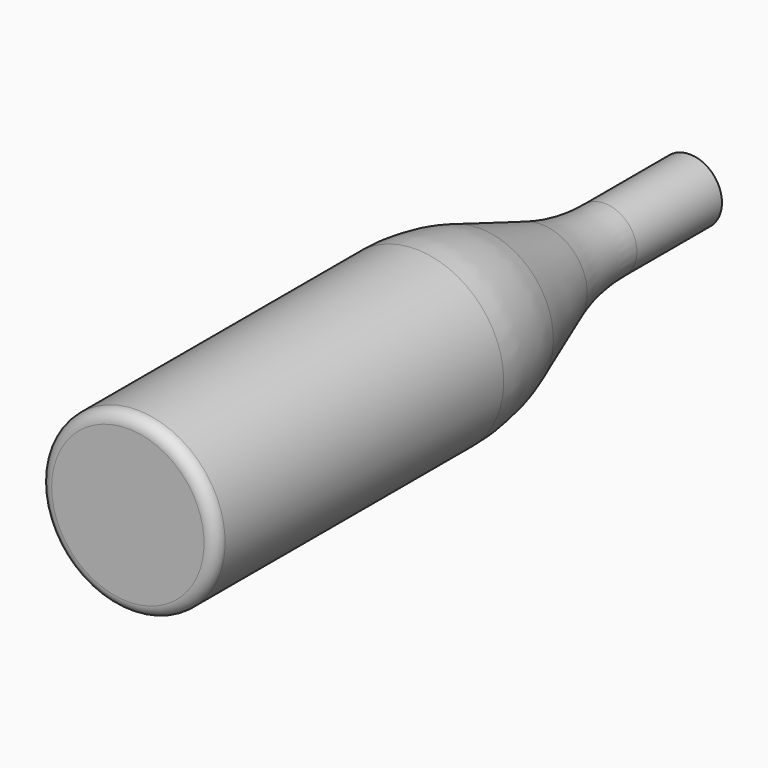
from build123d import *

# Parameters (mm, degrees)
F2_R = 100
F3_R = 5
F4_T = -2.5


with BuildPart() as f1:
    # F0 (on Top) → F1 (revolve)
    with BuildSketch(Plane.XY):
        Polygon((0, -300.5), (0, 0), (-13.75, 0), (-13.75, -63), (-37.6, -129), (-37.6, -300.5), align=None)
    revolve(axis=Axis((0, -150.25, 0), (0, -1, 0)))

    # F2
    f2_edges = [f1.edges().sort_by_distance(p)[0] for p in [
        (13.75, -63, 0),
        (37.6, -129, 0),
    ]]
    fillet(f2_edges, radius=F2_R)

    # F3
    f3_edges = [f1.edges().sort_by_distance(p)[0] for p in [
        (37.6, -300.5, 0),
    ]]
    fillet(f3_edges, radius=F3_R)

    # F4
    f4_openings = [f1.faces().sort_by_distance(p)[0] for p in [
        (0, 0, 0),
    ]]
    offset(amount=F4_T, openings=f4_openings)


solid = f1.part
